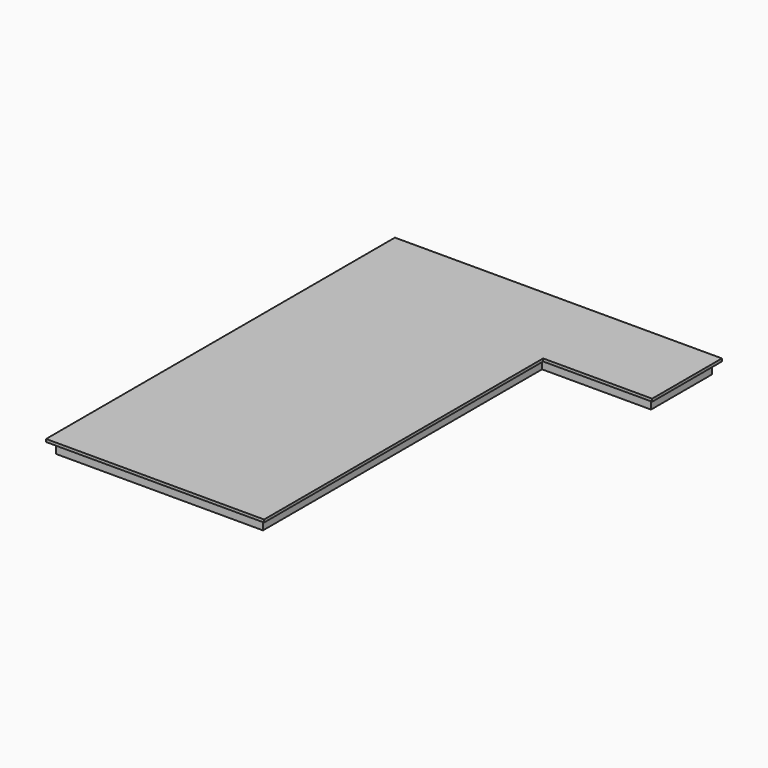
from build123d import *

# Parameters (mm, degrees)
F1_DEPTH = 38.1
F2_W     = 2895.6
F2_H     = 5943.6
F3_DEPTH = 152.4
F4_W     = 1524
F4_H     = 1066.8
F5_DEPTH = 152.4


with BuildPart() as f1:
    # F0 (on Top) → F1 (new body)
    with BuildSketch(Plane.XY):
        Polygon((3151.836924, 3422.502622), (-1420.163076, 3422.502622), (-1420.163076, -2673.497378), (1627.836924, -2673.497378), (1627.836924, 2203.302622), (3151.836924, 2203.302622), align=None)
    extrude(amount=-F1_DEPTH)

    # F2 (on face) → F3 (join)
    with BuildSketch(Plane(origin=(0, 0, -38.1), x_dir=(1, 0, 0), z_dir=(0, 0, -1))):
        with Locations((103.836924, -374.502622)):
            Rectangle(F2_W, F2_H)
    extrude(amount=F3_DEPTH)

    # F4 (on face) → F5 (join)
    with BuildSketch(Plane(origin=(0, 0, -38.1), x_dir=(1, 0, 0), z_dir=(0, 0, -1))):
        with Locations((2313.636924, -2812.902622)):
            Rectangle(F4_W, F4_H)
    extrude(amount=F5_DEPTH)


solid = f1.part
